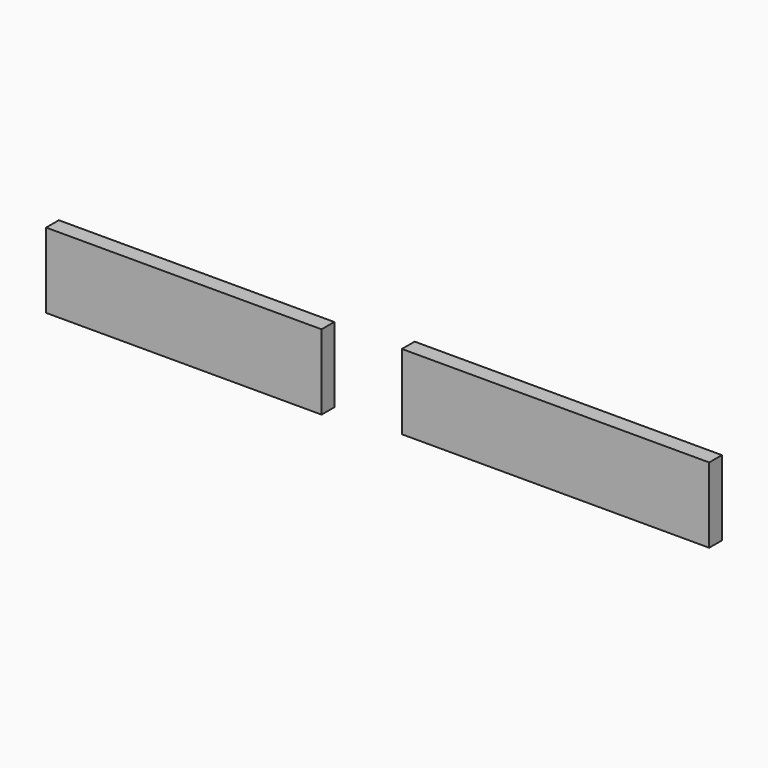
from build123d import *

# Parameters (mm, degrees)
F0_W     = 54.99989
F0_H     = 14.999995
F0_W_2   = 61.34989
F1_DEPTH = 3.175


with BuildPart() as f1:
    # F0 (on Front) → F1 (new body)
    with BuildSketch(Plane.XZ):
        with Locations((-27.499945, -7.499998)):
            Rectangle(F0_W, F0_H)
        with Locations((46.717024, -5.732423)):
            Rectangle(F0_W_2, F0_H)
    extrude(amount=-F1_DEPTH)


solid = f1.part
